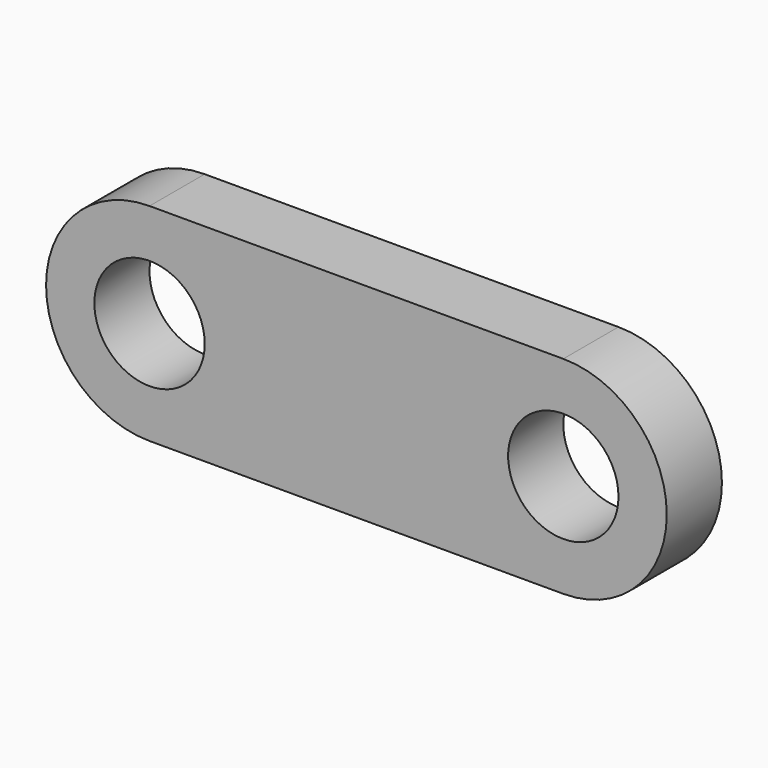
from build123d import *

# Parameters (mm, degrees)
F1_DEPTH = 5
F2_R     = 4
F3_DEPTH = 5


with BuildPart() as f1:
    # F0 (on Front) → F1 (new body)
    with BuildSketch(Plane.XZ):
        with BuildLine():
            Line((15, 7.5), (-15, 7.5))
            ThreePointArc((-15, 7.5), (-22.5, 0), (-15, -7.5))
            Line((-15, -7.5), (15, -7.5))
            ThreePointArc((15, -7.5), (22.5, 0), (15, 7.5))
        make_face()
    extrude(amount=F1_DEPTH)

    # F2 (on face) → F3 (cut)
    with BuildSketch(Plane.XZ.offset(5)):
        with Locations((-15, 0)):
            Circle(F2_R)
        with Locations((15, 0)):
            Circle(F2_R)
    extrude(amount=-F3_DEPTH, mode=Mode.SUBTRACT)


solid = f1.part
